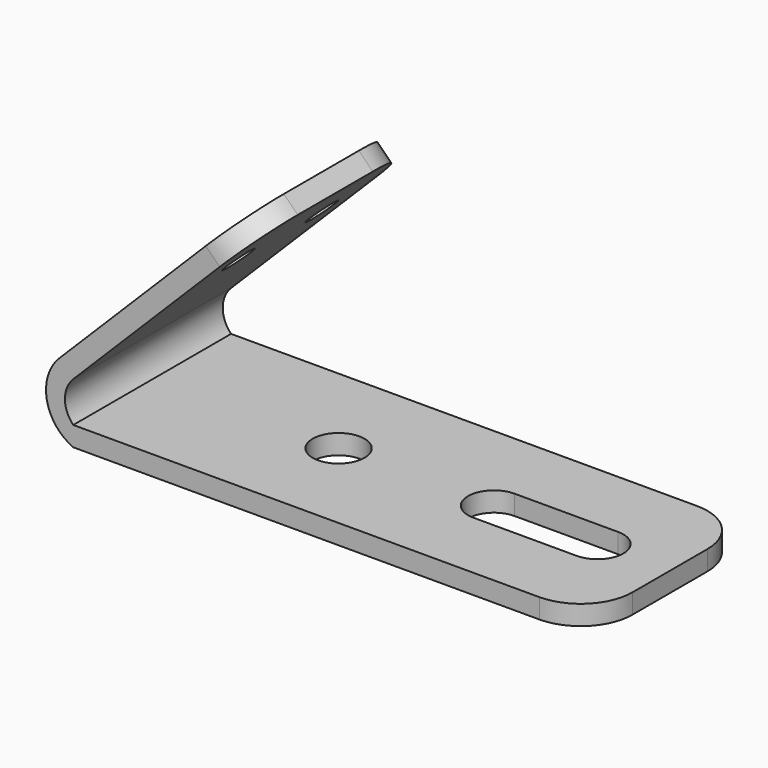
from build123d import *

# Parameters (mm, degrees)
F1_DEPTH = 483.87
F2_R     = 63.5
F3_DEPTH = 142.24
F4_R     = 38.1
F5_DEPTH = 73.66
F6_R     = 127
F7_R     = 127
F8_R     = 127
F9_R     = 127


with BuildPart() as f1:
    # F0 (on Front) → F1 (new body)
    with BuildSketch(Plane.XZ):
        with BuildLine():
            ThreePointArc((-483.137783, 181.369661), (-513.944341, 81.678197), (-449.012806, 0))
            Line((-449.012806, 0), (820.987194, 0))
            Line((820.987194, 0), (820.987194, 48.26))
            Line((820.987194, 48.26), (-449.012806, 48.26))
            ThreePointArc((-449.012806, 48.26), (-469.513207, 97.752345), (-449.012806, 147.244691))
            Line((-449.012806, 147.244691), (0, 596.257497))
            Line((0, 596.257497), (-34.124973, 630.38247))
            Line((-34.124973, 630.38247), (-483.137783, 181.369661))
        make_face()
    extrude(amount=F1_DEPTH)

    # F2 (on face) → F3 (cut)
    with BuildSketch(Plane(origin=(0, 0, 0), x_dir=(1, 0, 0), z_dir=(0, 0, -1))):
        with Locations((8.187194, 241.935)):
            Circle(F2_R)
        with BuildLine():
            ThreePointArc((389.187194, 178.435), (434.088475, 197.033719), (452.687194, 241.935))
            ThreePointArc((452.687194, 241.935), (434.088475, 286.836281), (389.187194, 305.435))
            ThreePointArc((389.187194, 305.435), (325.687194, 241.935), (389.187194, 178.435))
        make_face()
        with BuildLine():
            ThreePointArc((389.187194, 305.435), (434.088475, 286.836281), (452.687194, 241.935))
            ThreePointArc((452.687194, 241.935), (434.088475, 197.033719), (389.187194, 178.435))
            Line((389.187194, 178.435), (643.187194, 178.435))
            ThreePointArc((643.187194, 178.435), (579.687194, 241.935), (643.187194, 305.435))
            Line((643.187194, 305.435), (389.187194, 305.435))
        make_face()
        with BuildLine():
            ThreePointArc((706.687194, 241.935), (688.088475, 286.836281), (643.187194, 305.435))
            ThreePointArc((643.187194, 305.435), (579.687194, 241.935), (643.187194, 178.435))
            ThreePointArc((643.187194, 178.435), (688.088475, 197.033719), (706.687194, 241.935))
        make_face()
    extrude(amount=-F3_DEPTH, mode=Mode.SUBTRACT)

    # F4 (on face) → F5 (cut)
    with BuildSketch(Plane(origin=(-332.253722, 0, 332.253722), x_dir=(0.707107, 0, 0.707107), z_dir=(-0.707107, 0, 0.707107))):
        with Locations((231.117719, -114.3)):
            Circle(F4_R)
        with Locations((231.117719, -369.57)):
            Circle(F4_R)
    extrude(amount=-F5_DEPTH, mode=Mode.SUBTRACT)

    # F6
    f6_edges = [f1.edges().sort_by_distance(p)[0] for p in [
        (-17.062487, -483.87, 613.319983),
    ]]
    fillet(f6_edges, radius=F6_R)

    # F7
    f7_edges = [f1.edges().sort_by_distance(p)[0] for p in [
        (-17.062487, 0, 613.319983),
    ]]
    fillet(f7_edges, radius=F7_R)

    # F8
    f8_edges = [f1.edges().sort_by_distance(p)[0] for p in [
        (820.987194, -483.87, 24.13),
    ]]
    fillet(f8_edges, radius=F8_R)

    # F9
    f9_edges = [f1.edges().sort_by_distance(p)[0] for p in [
        (820.987194, 0, 24.13),
    ]]
    fillet(f9_edges, radius=F9_R)


solid = f1.part
